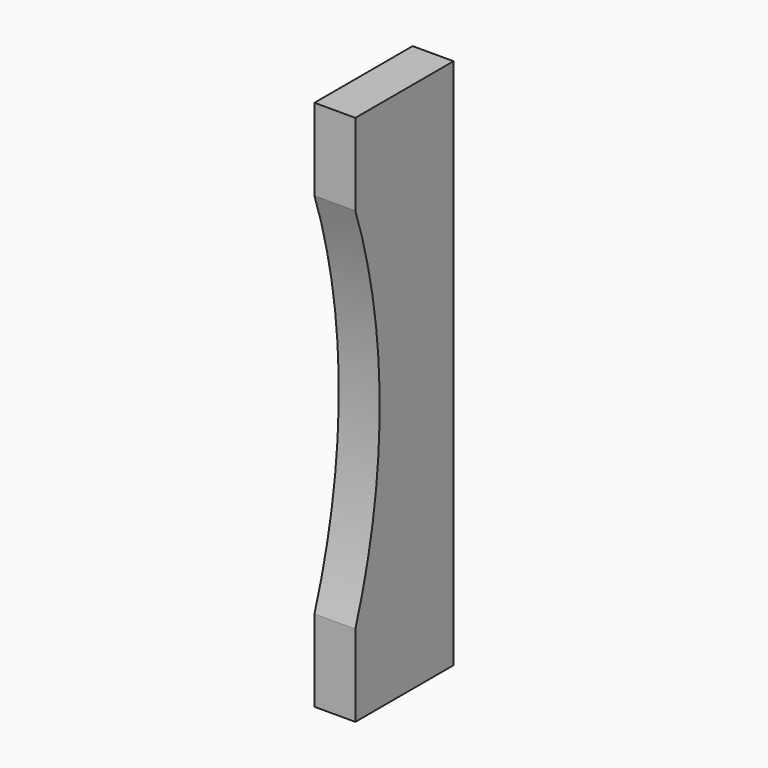
from build123d import *

# Parameters (mm, degrees)
F0_W     = 25.4
F0_H     = 330.2
F1_DEPTH = 76.2
F3_DEPTH = 635


with BuildPart() as f1:
    # F0 (on Front) → F1 (new body)
    with BuildSketch(Plane.XZ):
        with Locations((-12.7, -37.987886)):
            Rectangle(F0_W, F0_H)
    extrude(amount=F1_DEPTH)

    # F2 (on face) → F3 (cut)
    with BuildSketch(Plane.YZ):
        with BuildLine():
            Line((-76.2, 76.312114), (-76.2, -152.287886))
            ThreePointArc((-76.2, -152.287886), (-57.329669, -37.987886), (-76.2, 76.312114))
        make_face()
    extrude(amount=-F3_DEPTH, mode=Mode.SUBTRACT)


solid = f1.part
